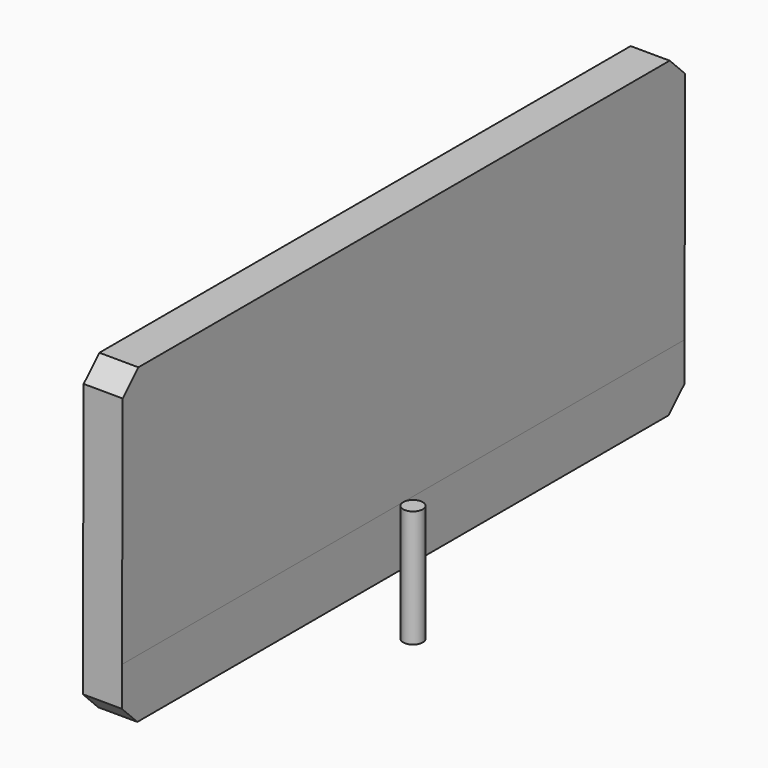
from build123d import *

# Parameters (mm, degrees)
F1_DEPTH = 914.4
F2_SIZE  = 50.8
F3_R     = 25.4
F4_DEPTH = 304.8


with BuildPart() as f1:
    # F0 (on Front) → F1 (new body, symmetric)
    with BuildSketch(Plane.XZ):
        Polygon((-99.412247, 965.53287), (-102.10418, 152.737328), (-0.504738, 152.400836), (0, 304.8), (2.187196, 965.196378), align=None)
    extrude(amount=F1_DEPTH, both=True)

    # F2
    f2_edges = [f1.edges().sort_by_distance(p)[0] for p in [
        (-51.304459, -914.4, 152.569082),
        (-48.612525, -914.4, 965.364624),
        (-48.612525, 914.4, 965.364624),
        (-51.304459, 914.4, 152.569082),
    ]]
    chamfer(f2_edges, length=F2_SIZE)


with BuildPart() as f4:
    # F3 (on Top) → F4 (new body, through all)
    with BuildSketch(Plane.XY):
        with Locations((25.4, 0)):
            Circle(F3_R)
    extrude(amount=F4_DEPTH)


solid = Compound([f1.part, f4.part])
